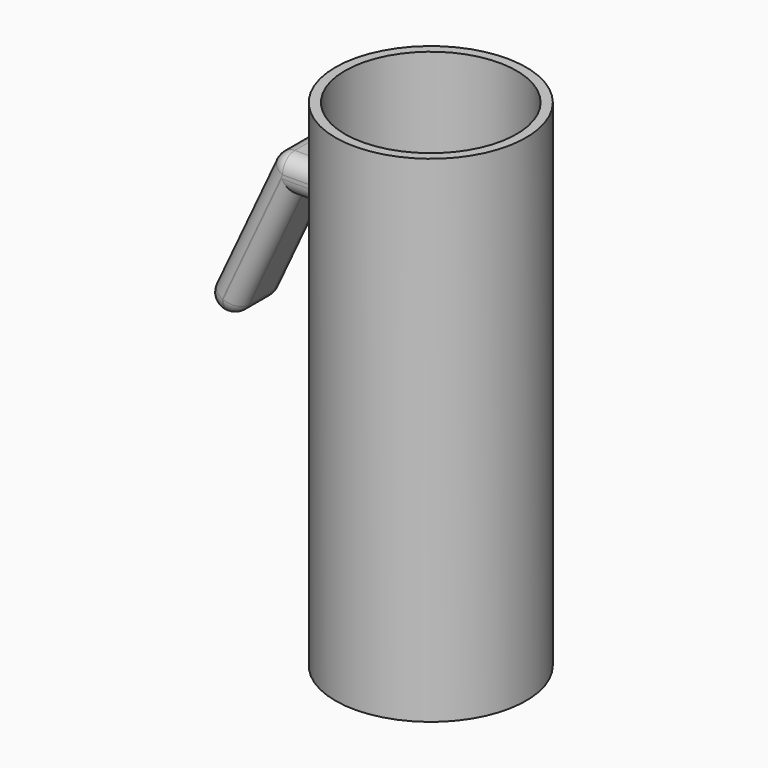
from build123d import *

# Parameters (mm, degrees)
F0_W     = 3.175
F0_H     = 25.4
F0_H_2   = 11.43
F2_DEPTH = 10.16
F3_R     = 5.08


with BuildPart() as f1:
    # F0 (on Front) → F1 (revolve)
    with BuildSketch(Plane.XZ):
        Polygon((-31.75, 0), (0, 0), (0, 3.175), (-28.575, 3.175), (-28.575, 128.27), (-31.75, 128.27), align=None)
        with Locations((-30.1625, 152.4)):
            Rectangle(F0_W, F0_H)
        with Locations((-30.1625, 133.985)):
            Rectangle(F0_W, F0_H_2)
    revolve(axis=Axis((0, 0, 1.5875), (0, 0, 1)))

    # F0 (on Front) → F2 (join, symmetric)
    with BuildSketch(Plane.XZ):
        Polygon((-38.349897, 128.27), (-31.75, 128.27), (-31.75, 139.7), (-44.45, 139.7), (-69.215, 86.591286), (-57.785, 86.591286), align=None)
        with Locations((-30.1625, 133.985)):
            Rectangle(F0_W, F0_H_2)
    extrude(amount=F2_DEPTH, both=True)

    # F3
    f3_edges = [f1.edges().sort_by_distance(p)[0] for p in [
        (-56.8325, 10.16, 113.145643),
        (-56.8325, -10.16, 113.145643),
        (-37.265253, -10.16, 139.7),
        (-37.265253, 10.16, 139.7),
        (-44.45, 0, 139.7),
        (-48.067448, -10.16, 107.430643),
        (-48.067448, 10.16, 107.430643),
        (-63.5, -10.16, 86.591286),
        (-63.5, 10.16, 86.591286),
        (-57.785, 0, 86.591286),
        (-69.215, 0, 86.591286),
        (-34.215202, 10.16, 128.27),
        (-34.215202, -10.16, 128.27),
    ]]
    fillet(f3_edges, radius=F3_R)


solid = f1.part
